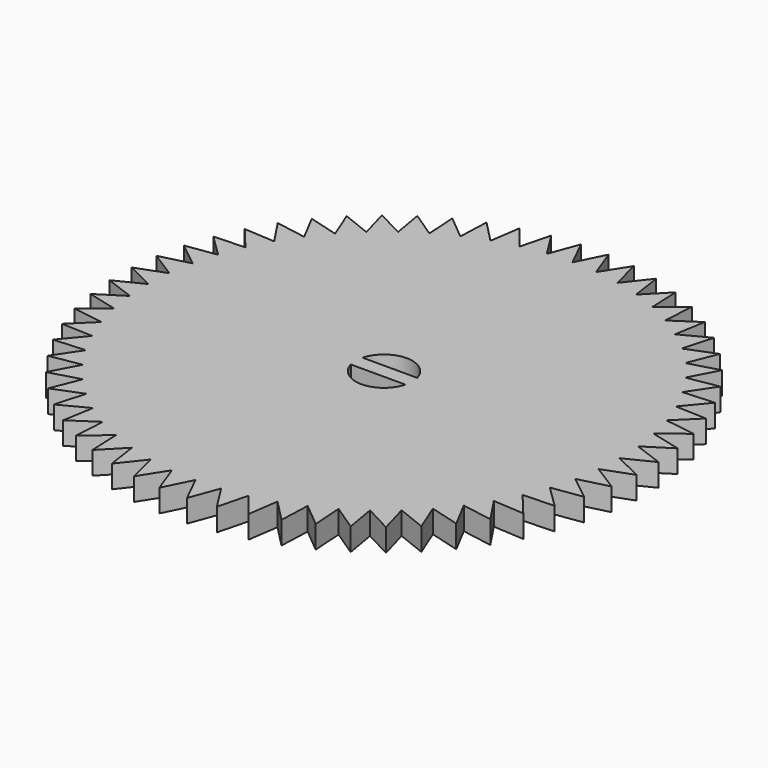
from build123d import *

# Parameters (mm, degrees)
F1_DEPTH = 2


with BuildPart() as f1:
    # F0 (on Top) → F1 (new body)
    with BuildSketch(Plane.XY):
        Polygon((1.220858, 23.295364), (0, 20.827976), (-1.220858, 23.295364), (-2.177116, 20.713879), (-3.649199, 23.040135), (-4.33038, 20.372835), (-6.037558, 22.532474), (-6.436199, 19.808583), (-8.359769, 21.777942), (-8.471501, 19.027303), (-10.590388, 20.784806), (-10.413988, 18.037557), (-12.704976, 19.563948), (-12.242377, 16.850187), (-14.680367, 18.128743), (-13.936636, 15.478203), (-16.494916, 16.494916), (-15.478203, 13.936636), (-18.128743, 14.680367), (-16.850187, 12.242377), (-19.563948, 12.704976), (-18.037557, 10.413988), (-20.784806, 10.590388), (-19.027303, 8.471501), (-21.777942, 8.359769), (-19.808583, 6.436199), (-22.532474, 6.037558), (-20.372835, 4.33038), (-23.040135, 3.649199), (-20.713879, 2.177116), (-23.295364, 1.220858), (-20.827976, 0), (-23.295364, -1.220858), (-20.713879, -2.177116), (-23.040135, -3.649199), (-20.372835, -4.33038), (-22.532474, -6.037558), (-19.808583, -6.436199), (-21.777942, -8.359769), (-19.027303, -8.471501), (-20.784806, -10.590388), (-18.037557, -10.413988), (-19.563948, -12.704976), (-16.850187, -12.242377), (-18.128743, -14.680367), (-15.478203, -13.936636), (-16.494916, -16.494916), (-13.936636, -15.478203), (-14.680367, -18.128743), (-12.242377, -16.850187), (-12.704976, -19.563948), (-10.413988, -18.037557), (-10.590388, -20.784806), (-8.471501, -19.027303), (-8.359769, -21.777942), (-6.436199, -19.808583), (-6.037558, -22.532474), (-4.33038, -20.372835), (-3.649199, -23.040135), (-2.177116, -20.713879), (-1.220858, -23.295364), (0, -20.827976), (1.220858, -23.295364), (2.177116, -20.713879), (3.649199, -23.040135), (4.33038, -20.372835), (6.037558, -22.532474), (6.436199, -19.808583), (8.359769, -21.777942), (8.471501, -19.027303), (10.590388, -20.784806), (10.413988, -18.037557), (12.704976, -19.563948), (12.242377, -16.850187), (14.680367, -18.128743), (13.936636, -15.478203), (16.494916, -16.494916), (15.478203, -13.936636), (18.128743, -14.680367), (16.850187, -12.242377), (19.563948, -12.704976), (18.037557, -10.413988), (20.784806, -10.590388), (19.027303, -8.471501), (21.777942, -8.359769), (19.808583, -6.436199), (22.532474, -6.037558), (20.372835, -4.33038), (23.040135, -3.649199), (20.713879, -2.177116), (23.295364, -1.220858), (20.827976, 0), (23.295364, 1.220858), (20.713879, 2.177116), (23.040135, 3.649199), (20.372835, 4.33038), (22.532474, 6.037558), (19.808583, 6.436199), (21.777942, 8.359769), (19.027303, 8.471501), (20.784806, 10.590388), (18.037557, 10.413988), (19.563948, 12.704976), (16.850187, 12.242377), (18.128743, 14.680367), (15.478203, 13.936636), (16.494916, 16.494916), (13.936636, 15.478203), (14.680367, 18.128743), (12.242377, 16.850187), (12.704976, 19.563948), (10.413988, 18.037557), (10.590388, 20.784806), (8.471501, 19.027303), (8.359769, 21.777942), (6.436199, 19.808583), (6.037558, 22.532474), (4.33038, 20.372835), (3.649199, 23.040135), (2.177116, 20.713879), align=None)
        with BuildLine():
            Line((-2.414022, -0.65), (2.414022, -0.65))
            ThreePointArc((2.414022, -0.65), (0, -2.5), (-2.414022, -0.65))
        make_face(mode=Mode.SUBTRACT)
        with BuildLine():
            ThreePointArc((-2.414022, 0.65), (0, 2.5), (2.414022, 0.65))
            Line((2.414022, 0.65), (-2.414022, 0.65))
        make_face(mode=Mode.SUBTRACT)
    extrude(amount=F1_DEPTH)


solid = f1.part
